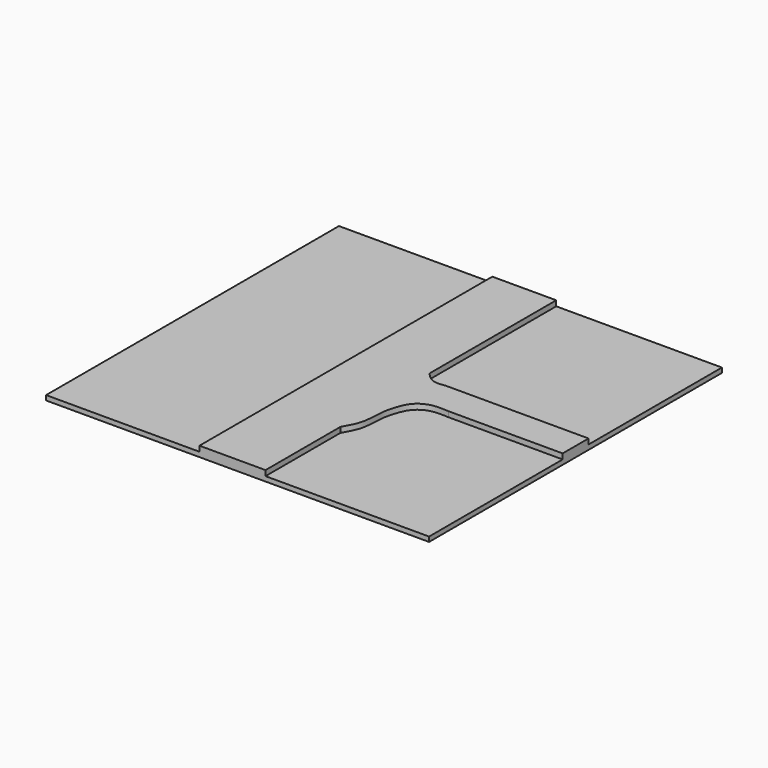
from build123d import *

# Parameters (mm, degrees)
F0_W     = 204.5249342918
F0_H     = 195.493966341
F1_DEPTH = 2.54
F3_DEPTH = 2.8448


with BuildPart() as f1:
    # F0 (on Top) → F1 (new body)
    with BuildSketch(Plane.XY):
        with Locations((2.9734447598, 3.9486810565)):
            Rectangle(F0_W, F0_H)
    extrude(amount=F1_DEPTH)

    # F2 (on face) → F3 (join)
    with BuildSketch(Plane.XY.offset(2.54)):
        with BuildLine():
            Line((-17.3801127821, -43.1336462498), (-17.3801127821, -93.798302114))
            Line((-17.3801127821, -93.798302114), (17.8944449872, -93.798302114))
            Line((17.8944449872, -93.798302114), (17.8944449872, -43.8535362482))
            add(Edge.make_bspline(
                [(17.8944449872, -43.8535362482), (19.6377973848, -40.8099152189), (23.1994125002, -34.5918914397), (22.8672950733, -22.568415978), (24.6099326679, -16.2696792332), (27.280489177, -8.681472684), (34.7377245339, -4.0405072298), (40.9514398387, -4.4219057306), (44.1720969975, -4.6195900068)],
                knots=[0, 0, 0, 0, 0.1822465719, 0.3723241188, 0.5162955376, 0.6700276511, 0.828970631, 1, 1, 1, 1], degree=3))
            Line((44.1720969975, -4.6195900068), (105.2359119058, -4.6195900068))
            Line((105.2359119058, -4.6195900068), (105.2359119058, 12.6577429473))
            Line((105.2359119058, 12.6577429473), (36.2526699901, 12.6577429473))
            Line((36.2526699901, 12.6577429473), (29.0531925857, 12.6577429473))
            add(Edge.make_bspline(
                [(29.0531925857, 12.6577429473), (26.7554854749, 12.3173098622), (22.0675905119, 11.6227415521), (18.5421925524, 15.1794504397), (16.7447198182, 16.992887482)],
                knots=[0, 0, 0, 0, 0.4901362187, 1, 1, 1, 1], degree=3))
            Line((16.7447198182, 16.992887482), (16.7447198182, 101.695664227))
            Line((16.7447198182, 101.695664227), (-17.3801127821, 101.695664227))
            Line((-17.3801127821, 101.695664227), (-17.3801127821, -43.1336462498))
        make_face()
    extrude(amount=F3_DEPTH)


solid = f1.part
